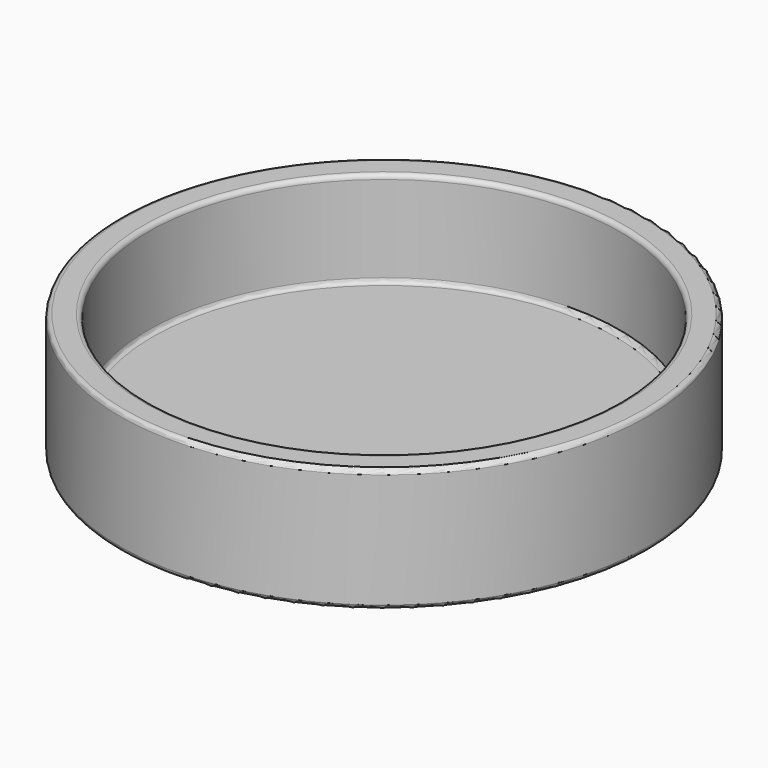
from build123d import *

# Parameters (mm, degrees)
F0_R     = 14.9225
F1_DEPTH = 3.4925
F2_T     = -1.5875
F3_R     = 0.254


with BuildPart() as f1:
    # F0 (on Top) → F1 (new body, symmetric)
    with BuildSketch(Plane.XY):
        Circle(F0_R)
    extrude(amount=F1_DEPTH, both=True)

    # F2
    f2_openings = [f1.faces().sort_by_distance(p)[0] for p in [
        (0, 0, 3.4925),
    ]]
    offset(amount=F2_T, openings=f2_openings)

    # F3
    f3_edges = [f1.edges().sort_by_distance(p)[0] for p in [
        (-13.335, 0, -1.905),
        (-13.335, 0, 3.4925),
        (-14.9225, 0, 3.4925),
        (-14.9225, 0, -3.4925),
    ]]
    fillet(f3_edges, radius=F3_R)


solid = f1.part
